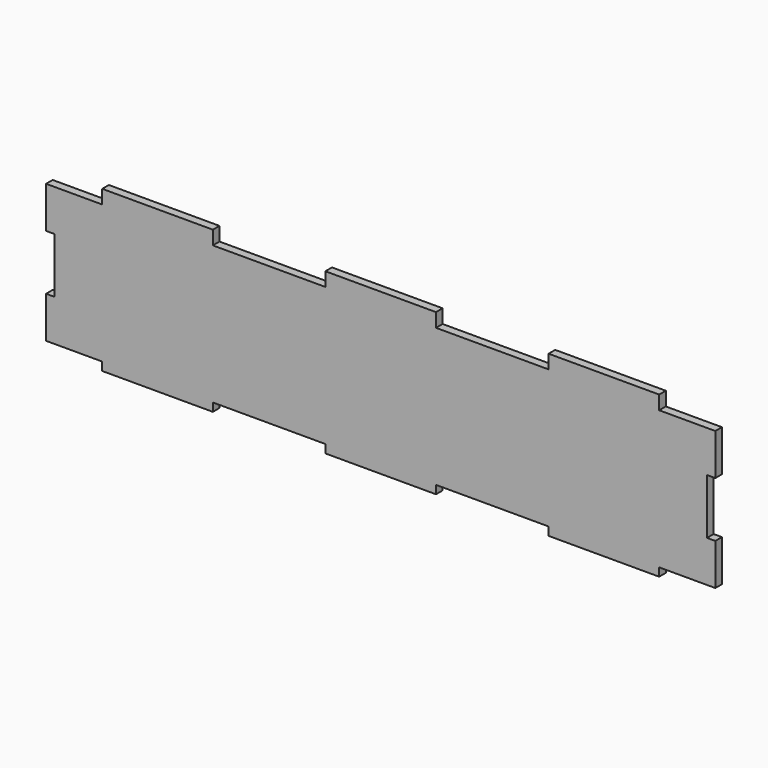
from build123d import *

# Parameters (mm, degrees)
F1_DEPTH = 3


with BuildPart() as f1:
    # F0 (on Front) → F1 (new body)
    with BuildSketch(Plane.XZ):
        Polygon((100.7, -25), (121, -25), (121, -10), (118, -10), (118, 10), (121, 10), (121, 25), (100.7, 25), (100.7, 28), (100.7, 30), (60.7, 30), (60.7, 28), (60.7, 25), (20, 25), (20, 28), (20, 30), (-20, 30), (-20, 28), (-20, 25), (-60.7, 25), (-60.7, 28), (-60.7, 30), (-100.7, 30), (-100.7, 28), (-100.7, 25), (-121, 25), (-121, 10), (-118, 10), (-118, -10), (-121, -10), (-121, -25), (-100.7, -25), (-100.7, -28), (-60.7, -28), (-60.7, -25), (-20, -25), (-20, -28), (20, -28), (20, -25), (60.7, -25), (60.7, -28), (100.7, -28), align=None)
    extrude(amount=F1_DEPTH)


solid = f1.part
